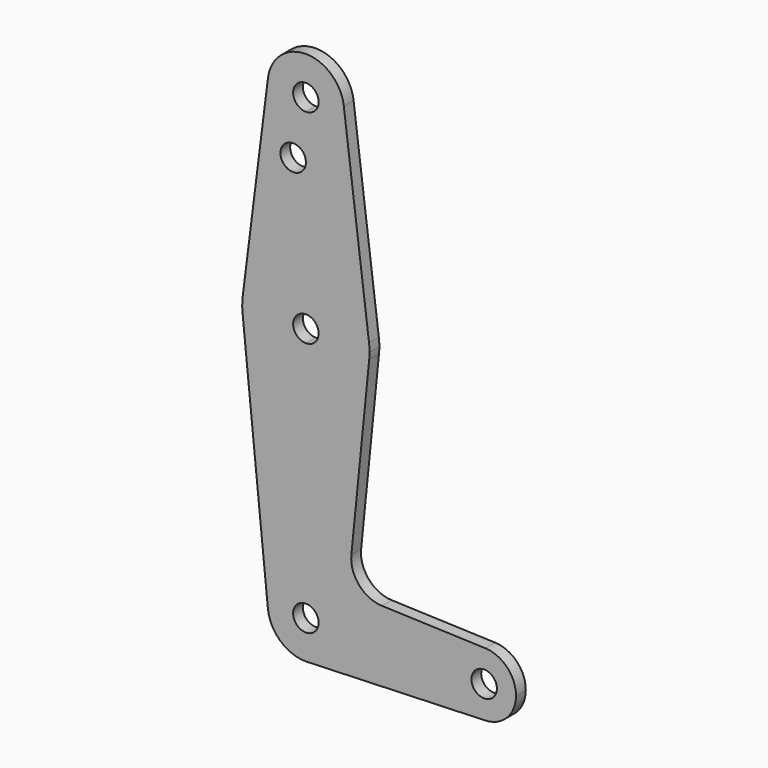
from build123d import *

# Parameters (mm, degrees)
F0_R     = 3.175
F1_DEPTH = 3.048


with BuildPart() as f1:
    # F0 (on Front) → F1 (new body)
    with BuildSketch(Plane.XZ):
        with BuildLine():
            Line((0.6773435479, -9.500885786), (0, -9.525))
            ThreePointArc((0, -9.525), (0.3388863295, -9.5189695375), (0.6773435479, -9.500885786))
        make_face()
        with BuildLine():
            ThreePointArc((9.525, 114.3), (6.7351920908, 107.5648079092), (0, 104.775))
            Line((0, 104.775), (0, 100.0252))
            Line((0, 100.0252), (0, 79.375))
            ThreePointArc((0, 79.375), (10.5003255158, 75.40625), (15.7504882737, 65.484375))
            Line((15.7504882737, 65.484375), (9.4502929642, 115.490625))
            ThreePointArc((9.4502929642, 115.490625), (9.5063048942, 114.896483242), (9.525, 114.3))
        make_face()
        with BuildLine():
            ThreePointArc((0, 47.625), (-10.6492737428, 51.7267849017), (-15.7954255641, 61.9125))
            Line((-15.7954255641, 61.9125), (-9.4772553384, -0.9525))
            ThreePointArc((-9.4772553384, -0.9525), (-7.063929059, 6.3895642457), (0, 9.525))
            Line((0, 9.525), (0, 47.625))
        make_face()
        with BuildLine():
            Line((36.5125, 0), (9.525, 0))
            ThreePointArc((9.525, 0), (6.9705567315, -6.4912990883), (0.6773435479, -9.500885786))
            Line((0.6773435479, -9.500885786), (44.7324052746, -7.9324746146))
            ThreePointArc((44.7324052746, -7.9324746146), (38.9380895153, -5.7116327839), (36.5125, 0))
        make_face()
        with BuildLine():
            ThreePointArc((-9.4502929642, 115.490625), (-7.14375, 107.9998046905), (0, 104.775))
            ThreePointArc((0, 104.775), (6.7351920908, 107.5648079092), (9.525, 114.3))
            ThreePointArc((9.525, 114.3), (9.5063048942, 114.896483242), (9.4502929642, 115.490625))
            ThreePointArc((9.4502929642, 115.490625), (0, 123.825), (-9.4502929642, 115.490625))
        make_face()
        with BuildLine():
            ThreePointArc((3.175, 114.3), (2.2450640303, 112.0549359697), (0, 111.125))
            ThreePointArc((0, 111.125), (-2.2450640303, 116.5450640303), (3.175, 114.3))
        make_face(mode=Mode.SUBTRACT)
        with BuildLine():
            ThreePointArc((44.7334821429, 7.9324362036), (38.9384772185, 5.7120069047), (36.5125, 0))
            ThreePointArc((36.5125, 0), (38.9380895153, -5.7116327839), (44.7324052746, -7.9324746146))
            ThreePointArc((44.7324052746, -7.9324746146), (50.1616327839, -5.5119104847), (52.3875, 0))
            ThreePointArc((52.3875, 0), (50.1620069047, 5.5115227815), (44.7334821429, 7.9324362036))
        make_face()
        with BuildLine():
            ThreePointArc((47.625, 0), (44.45, -3.175), (41.275, 0))
            ThreePointArc((41.275, 0), (44.45, 3.175), (47.625, 0))
        make_face(mode=Mode.SUBTRACT)
        with BuildLine():
            Line((0, 100.0252), (0, 104.775))
            ThreePointArc((0, 104.775), (-7.14375, 107.9998046905), (-9.4502929642, 115.490625))
            Line((-9.4502929642, 115.490625), (-15.7504882737, 65.484375))
            ThreePointArc((-15.7504882737, 65.484375), (-10.5003255158, 75.40625), (0, 79.375))
            Line((0, 79.375), (0, 100.0252))
        make_face()
        with Locations((-3.175, 100.0252)):
            Circle(F0_R, mode=Mode.SUBTRACT)
        with BuildLine():
            ThreePointArc((15.7504882737, 65.484375), (10.5003255158, 75.40625), (0, 79.375))
            Line((0, 79.375), (0, 66.675))
            ThreePointArc((0, 66.675), (2.2450640303, 65.7450640303), (3.175, 63.5))
            ThreePointArc((3.175, 63.5), (2.2450640303, 61.2549359697), (0, 60.325))
            Line((0, 60.325), (0, 47.625))
            ThreePointArc((0, 47.625), (10.6492737428, 51.7267849017), (15.7954255641, 61.9125))
            ThreePointArc((15.7954255641, 61.9125), (15.8550939106, 62.7052534459), (15.875, 63.5))
            ThreePointArc((15.875, 63.5), (15.8438414904, 64.4941387366), (15.7504882737, 65.484375))
        make_face()
        with BuildLine():
            Line((0, 66.675), (0, 79.375))
            ThreePointArc((0, 79.375), (-10.5003255158, 75.40625), (-15.7504882737, 65.484375))
            ThreePointArc((-15.7504882737, 65.484375), (-15.8737438155, 63.6997054867), (-15.7954255641, 61.9125))
            ThreePointArc((-15.7954255641, 61.9125), (-10.6492737428, 51.7267849017), (0, 47.625))
            Line((0, 47.625), (0, 60.325))
            ThreePointArc((0, 60.325), (-3.175, 63.5), (0, 66.675))
        make_face()
        with BuildLine():
            ThreePointArc((0, 9.525), (-7.063929059, 6.3895642457), (-9.4772553384, -0.9525))
            ThreePointArc((-9.4772553384, -0.9525), (-6.3895642457, -7.063929059), (0, -9.525))
            Line((0, -9.525), (0.6773435479, -9.500885786))
            ThreePointArc((0.6773435479, -9.500885786), (6.9705567315, -6.4912990883), (9.525, 0))
            Line((9.525, 0), (3.175, 0))
            ThreePointArc((3.175, 0), (-2.2450640303, -2.2450640303), (0, 3.175))
            Line((0, 3.175), (0, 9.525))
        make_face()
        with BuildLine():
            ThreePointArc((9.525, 0), (6.7351920908, 6.7351920908), (0, 9.525))
            Line((0, 9.525), (0, 3.175))
            ThreePointArc((0, 3.175), (2.2450640303, 2.2450640303), (3.175, 0))
            Line((3.175, 0), (9.525, 0))
        make_face()
        with BuildLine():
            ThreePointArc((15.7954255641, 61.9125), (10.6492737428, 51.7267849017), (0, 47.625))
            Line((0, 47.625), (0, 9.525))
            ThreePointArc((0, 9.525), (6.7351920908, 6.7351920908), (9.525, 0))
            Line((9.525, 0), (36.5125, 0))
            ThreePointArc((36.5125, 0), (38.9384772185, 5.7120069047), (44.7334821429, 7.9324362036))
            Line((44.7334821429, 7.9324362036), (18.9676000005, 8.8532337108))
            ThreePointArc((18.9676000005, 8.8532337108), (13.2611998974, 11.5713591498), (11.3411865923, 17.5933818124))
            Line((11.3411865923, 17.5933818124), (15.7954255641, 61.9125))
        make_face()
    extrude(amount=F1_DEPTH)


solid = f1.part
